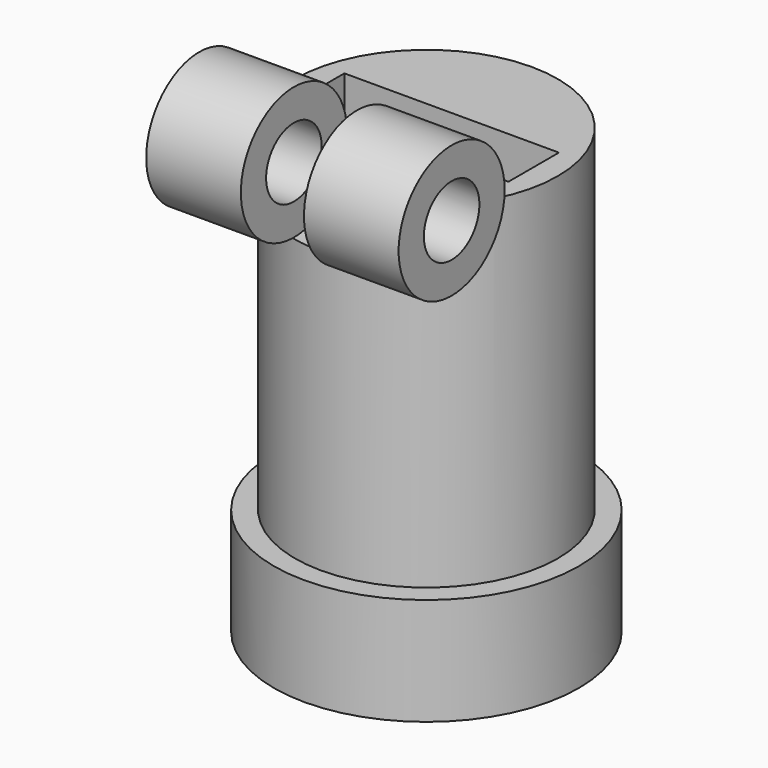
from build123d import *

# Parameters (mm, degrees)
F0_R           = 7.25
F0_R_2         = 5.75
F1_DEPTH       = 5.1
F2_R           = 6.25
F2_R_2         = 5.75
F2_R_3         = 5.35
F3_DEPTH       = 16
F4_R           = 5.35
F4_R_2         = 0.6
F5_DEPTH       = 6
F6_W           = 10.2
F6_H           = 3
F6_R           = 0.6
F7_DEPTH       = 10
F8_R           = 3.15
F8_R_2         = 1.65
F9_DEPTH       = 6
F9_DEPTH_BACK  = 6
F10_DEPTH      = 1.5
F10_DEPTH_BACK = 1.5
F11_R          = 1.65
F12_DEPTH      = 25


with BuildPart() as f1:
    # F0 (on Top) → F1 (new body)
    with BuildSketch(Plane.XY):
        Circle(F0_R)
        Circle(F0_R_2, mode=Mode.SUBTRACT)
    extrude(amount=F1_DEPTH)


with BuildPart() as f3:
    # F2 (on face) → F3 (new body)
    with BuildSketch(Plane.XY.offset(5.1)):
        Circle(F2_R)
        Circle(F2_R_2, mode=Mode.SUBTRACT)
        Circle(F2_R_2)
        Circle(F2_R_3, mode=Mode.SUBTRACT)
    extrude(amount=F3_DEPTH)

    # F4 (on face) → F5 (join)
    with BuildSketch(Plane.XY.offset(21.1)):
        Circle(F4_R)
        Circle(F4_R_2, mode=Mode.SUBTRACT)
    extrude(amount=-F5_DEPTH)

    # F6 (on face) → F7 (cut)
    with BuildSketch(Plane.XY.offset(21.1)):
        Rectangle(F6_W, F6_H)
        Circle(F6_R, mode=Mode.SUBTRACT)
    extrude(amount=-F7_DEPTH, mode=Mode.SUBTRACT)

    # F8 (on Right) → F9 (join, two sides)
    with BuildSketch(Plane.YZ) as f9_sk:
        with Locations((-6, 21.6)):
            Circle(F8_R)
        with Locations((-6, 21.6)):
            Circle(F8_R_2, mode=Mode.SUBTRACT)
    extrude(amount=F9_DEPTH)
    extrude(f9_sk.sketch, amount=-F9_DEPTH_BACK)

    # F8 (on Right) → F10 (cut, two sides)
    with BuildSketch(Plane.YZ) as f10_sk:
        with Locations((-6, 21.6)):
            Circle(F8_R)
        with Locations((-6, 21.6)):
            Circle(F8_R_2, mode=Mode.SUBTRACT)
    extrude(amount=F10_DEPTH, mode=Mode.SUBTRACT)
    extrude(f10_sk.sketch, amount=-F10_DEPTH_BACK, mode=Mode.SUBTRACT)

    # F11 (on face) → F12 (cut)
    with BuildSketch(Plane(origin=(-6, 0, 0), x_dir=(0, -1, 0), z_dir=(-1, 0, 0))):
        with Locations((6, 21.6)):
            Circle(F11_R)
    extrude(amount=-F12_DEPTH, mode=Mode.SUBTRACT)


solid = Compound([f1.part, f3.part])
